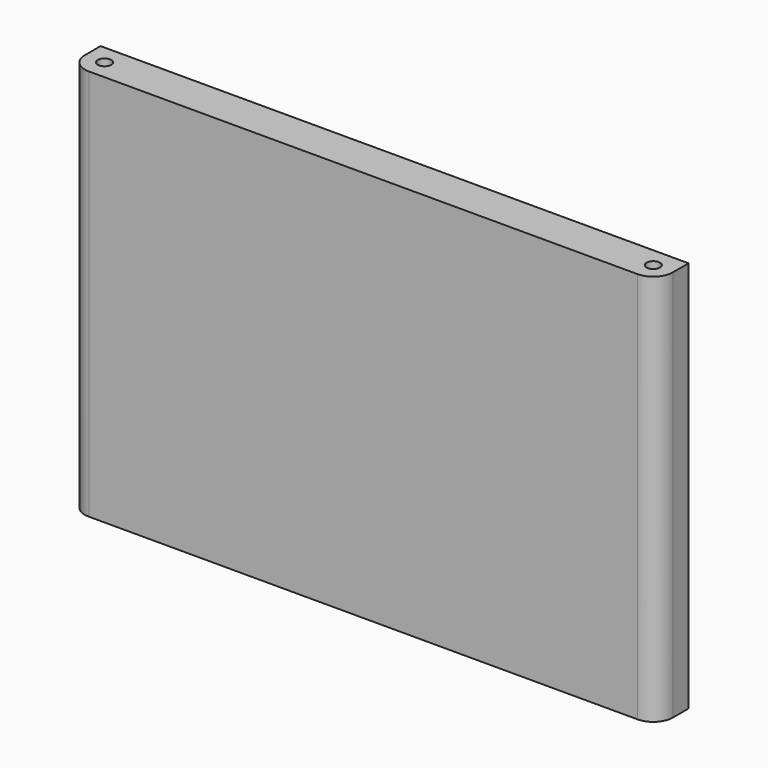
from build123d import *

# Parameters (mm, degrees)
F0_W     = 150
F0_H     = 100
F1_DEPTH = 10
F3_D     = 3.4
F3_DEPTH = 12
F3_TIP   = 1.0214630523
F4_D     = 3.4
F4_DEPTH = 12
F4_TIP   = 1.0214630523
F6_D     = 3.4
F6_DEPTH = 12
F6_TIP   = 1.0214630523
F7_D     = 3.4
F7_DEPTH = 12
F7_TIP   = 1.0214630523
F8_R     = 5
F9_R     = 5


with BuildPart() as f1:
    # F0 (on Front) → F1 (new body)
    with BuildSketch(Plane.XZ):
        with Locations((75, 50)):
            Rectangle(F0_W, F0_H)
    extrude(amount=F1_DEPTH)

    # F3
    with Locations(Plane.XY.offset(100)):
        with Locations((145, -5)):
            Hole(F3_D / 2, depth=F3_DEPTH)
            with Locations((0, 0, -(F3_DEPTH + F3_TIP / 2))):  # 118° drill point
                Cone(0, F3_D / 2, F3_TIP, mode=Mode.SUBTRACT)

    # F4
    with Locations(Plane.XY.offset(100)):
        with Locations((5, -5)):
            Hole(F4_D / 2, depth=F4_DEPTH)
            with Locations((0, 0, -(F4_DEPTH + F4_TIP / 2))):  # 118° drill point
                Cone(0, F4_D / 2, F4_TIP, mode=Mode.SUBTRACT)

    # F6
    with Locations(Plane(origin=(0, 0, 0), x_dir=(1, 0, 0), z_dir=(0, 0, -1))):
        with Locations((145, 5)):
            Hole(F6_D / 2, depth=F6_DEPTH)
            with Locations((0, 0, -(F6_DEPTH + F6_TIP / 2))):  # 118° drill point
                Cone(0, F6_D / 2, F6_TIP, mode=Mode.SUBTRACT)

    # F7
    with Locations(Plane(origin=(0, 0, 0), x_dir=(1, 0, 0), z_dir=(0, 0, -1))):
        with Locations((5, 5)):
            Hole(F7_D / 2, depth=F7_DEPTH)
            with Locations((0, 0, -(F7_DEPTH + F7_TIP / 2))):  # 118° drill point
                Cone(0, F7_D / 2, F7_TIP, mode=Mode.SUBTRACT)

    # F8
    f8_edges = [f1.edges().sort_by_distance(p)[0] for p in [
        (150, -10, 50),
    ]]
    fillet(f8_edges, radius=F8_R)

    # F9
    f9_edges = [f1.edges().sort_by_distance(p)[0] for p in [
        (0, -10, 50),
    ]]
    fillet(f9_edges, radius=F9_R)


solid = f1.part
